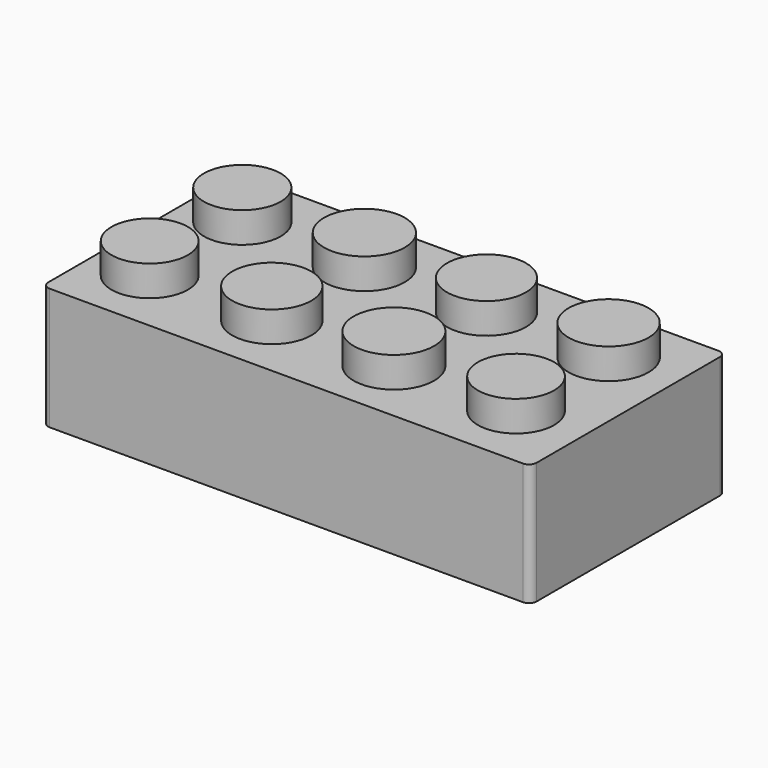
from build123d import *

# Parameters (mm, degrees)
F0_W     = 32
F0_H     = 16
F1_DEPTH = 8
F3_R     = 2.5890653677
F3_R_2   = 2.5126878493
F3_R_3   = 2.6441660213
F3_R_4   = 2.5038047819
F3_R_5   = 2.6210090881
F3_R_6   = 2.500461059
F3_R_7   = 2.6359235988
F3_R_8   = 2.5954418061
F4_DEPTH = 2
F5_R     = 0.5
F6_R     = 0.5
F7_R     = 0.5
F8_T     = -1.5


with BuildPart() as f1:
    # F0 (on Top) → F1 (new body)
    with BuildSketch(Plane.XY):
        with Locations((0, 1.6263736921)):
            Rectangle(F0_W, F0_H)
    extrude(amount=F1_DEPTH)

    # F3 (on offset) → F4 (join)
    with BuildSketch(Plane.XY.offset(8)):
        with Locations((3.5897120633, 5.5338214714)):
            Circle(F3_R)
        with Locations((-12.4102879367, 5.5338214714)):
            Circle(F3_R_2)
        with Locations((-4.4102879367, 5.5338214714)):
            Circle(F3_R_3)
        with Locations((-12.4102879367, -2.0500652119)):
            Circle(F3_R_4)
        with Locations((11.5897120633, 5.5338214714)):
            Circle(F3_R_5)
        with Locations((11.5897120633, -2.0500652119)):
            Circle(F3_R_6)
        with Locations((3.5897120633, -2.0500652119)):
            Circle(F3_R_7)
        with Locations((-4.4102879367, -2.0500652119)):
            Circle(F3_R_8)
    extrude(amount=F4_DEPTH)

    # F5
    f5_edges = [f1.edges().sort_by_distance(p)[0] for p in [
        (-16, 9.626374, 4),
    ]]
    fillet(f5_edges, radius=F5_R)

    # F6
    f6_edges = [f1.edges().sort_by_distance(p)[0] for p in [
        (16, 9.626374, 4),
    ]]
    fillet(f6_edges, radius=F6_R)

    # F7
    f7_edges = [f1.edges().sort_by_distance(p)[0] for p in [
        (16, -6.373626, 4),
        (-16, -6.373626, 4),
    ]]
    fillet(f7_edges, radius=F7_R)

    # F8
    f8_openings = [f1.faces().sort_by_distance(p)[0] for p in [
        (0, 1.626374, 0),
    ]]
    offset(amount=F8_T, openings=f8_openings, kind=Kind.INTERSECTION)


solid = f1.part
